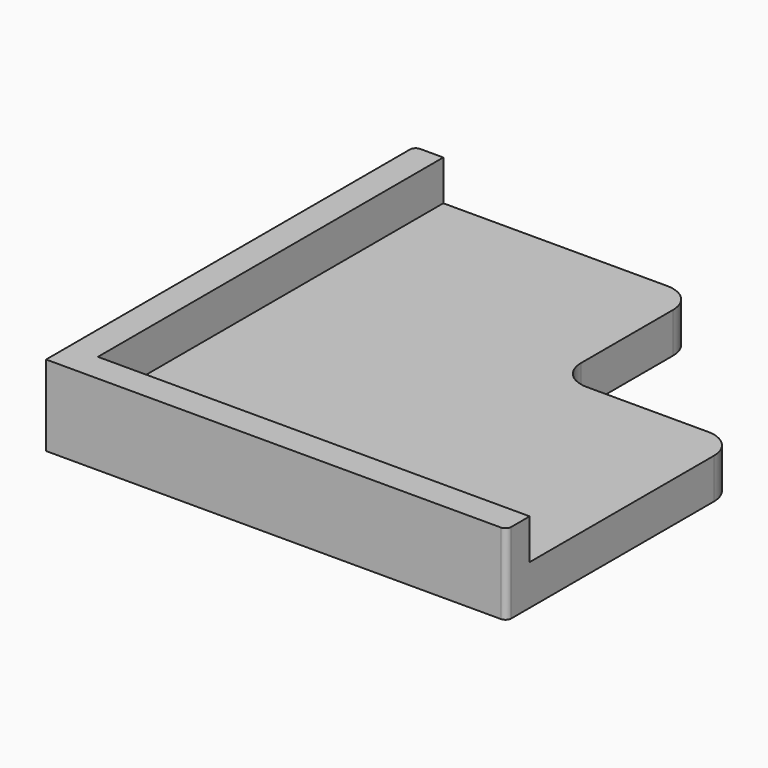
from build123d import *

# Parameters (mm, degrees)
F1_DEPTH  = 80
F3_DEPTH  = 75
F5_DEPTH  = 80
F7_DEPTH  = 80
F9_W      = 115.3811365366
F9_H      = 141.341894865
F10_DEPTH = 97.9
F11_R     = 5
F12_R     = 1


with BuildPart() as f1:
    # F0 (on Top) → F1 (new body)
    with BuildSketch(Plane.XY):
        Polygon((-41.2332489645, 39.6297108009), (-54.2332489645, 39.6297108009), (-54.2332489645, -40.3702891991), (25.7667510355, -40.3702891991), (25.7667510355, -27.3702891991), (-41.2332489645, -27.3702891991), align=None)
    extrude(amount=-F1_DEPTH)

    # F2 (on face) → F3 (cut)
    with BuildSketch(Plane.XY):
        Polygon((-44.2332489645, 39.6297108009), (-51.2332489645, 39.6297108009), (-51.2332489645, -37.3702891991), (25.7667510355, -37.3702891991), (25.7667510355, -30.3702891991), (-44.2332489645, -30.3702891991), align=None)
    extrude(amount=-F3_DEPTH, mode=Mode.SUBTRACT)

    # F4 (on face) → F5 (join)
    with BuildSketch(Plane.YZ.offset(25.7667510355)):
        Polygon((-27.3702891991, -80), (-40.3702891991, -80), (-40.3702891991, -97), (9.6297108009, -97), (9.6297108009, -90), (-35.3702891991, -90), (-35.3702891991, -83), (-20.3702891991, -83), (-20.3702891991, -80), align=None)
    extrude(amount=-F5_DEPTH)

    # F6 (on face) → F7 (join)
    with BuildSketch(Plane(origin=(0, 39.6297108009, 0), x_dir=(-1, 0, 0), z_dir=(0, 1, 0))):
        Polygon((54.2332489645, -80), (34.2332489645, -80), (34.2332489645, -83), (49.2332489645, -83), (49.2332489645, -90), (5.3266771138, -90), (5.3266771138, -97), (41.2332489645, -97), (54.2332489645, -97), align=None)
    extrude(amount=-F7_DEPTH)

    # F9 (on offset) → F10 (cut)
    with BuildSketch(Plane(origin=(0, 0, -83), x_dir=(1, 0, 0), z_dir=(0, 0, -1))):
        with Locations((-4.7438181937, -3.1282007694)):
            Rectangle(F9_W, F9_H)
    extrude(amount=-F10_DEPTH, mode=Mode.SUBTRACT)

    # F11
    f11_edges = [f1.edges().sort_by_distance(p)[0] for p in [
        (-5.326677, 9.629711, -93.5),
        (-5.326677, 39.629711, -93.5),
        (25.766751, 9.629711, -93.5),
    ]]
    fillet(f11_edges, radius=F11_R)

    # F12
    f12_edges = [f1.edges().sort_by_distance(p)[0] for p in [
        (25.766751, -40.370289, -90),
        (-54.233249, 39.629711, -90),
    ]]
    fillet(f12_edges, radius=F12_R)


solid = f1.part
